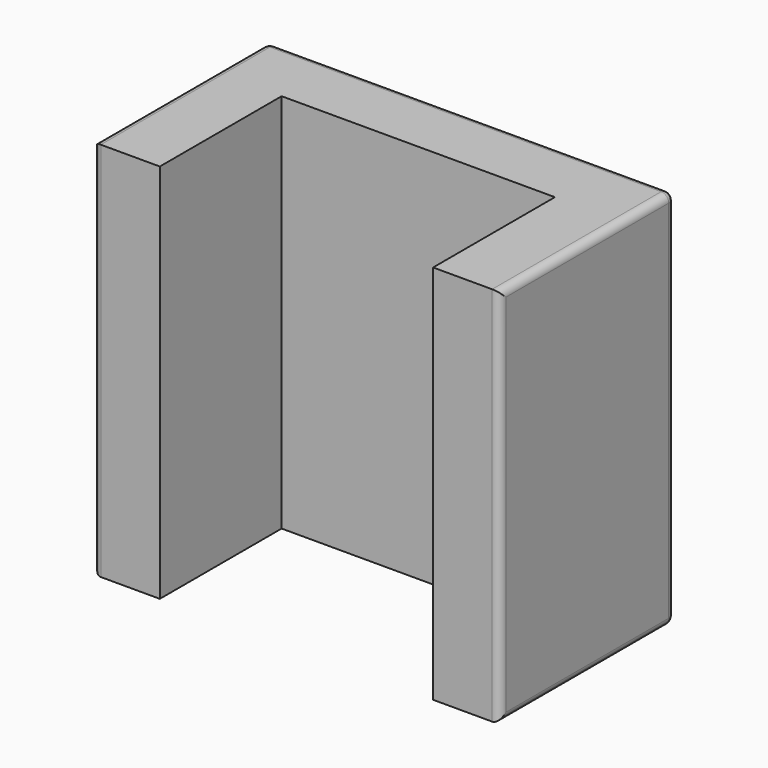
from build123d import *

# Parameters (mm, degrees)
F1_DEPTH = 50
F2_R     = 1


with BuildPart() as f1:
    # F0 (on Top) → F1 (new body)
    with BuildSketch(Plane.XY):
        Polygon((-8.75, 0), (0, 0), (0, 20), (35.9, 20), (35.9, 0), (44.65, 0), (44.65, 28.75), (-8.75, 28.75), align=None)
    extrude(amount=-F1_DEPTH)

    # F2
    f2_edges = [f1.edges().sort_by_distance(p)[0] for p in [
        (44.65, 28.75, -25),
        (-8.75, 28.75, -25),
        (17.95, 28.75, 0),
        (17.95, 28.75, -50),
        (-8.75, 0, -25),
        (-8.75, 14.375, 0),
        (-8.75, 14.375, -50),
        (44.65, 0, -25),
        (44.65, 14.375, 0),
        (44.65, 14.375, -50),
    ]]
    fillet(f2_edges, radius=F2_R)


solid = f1.part
